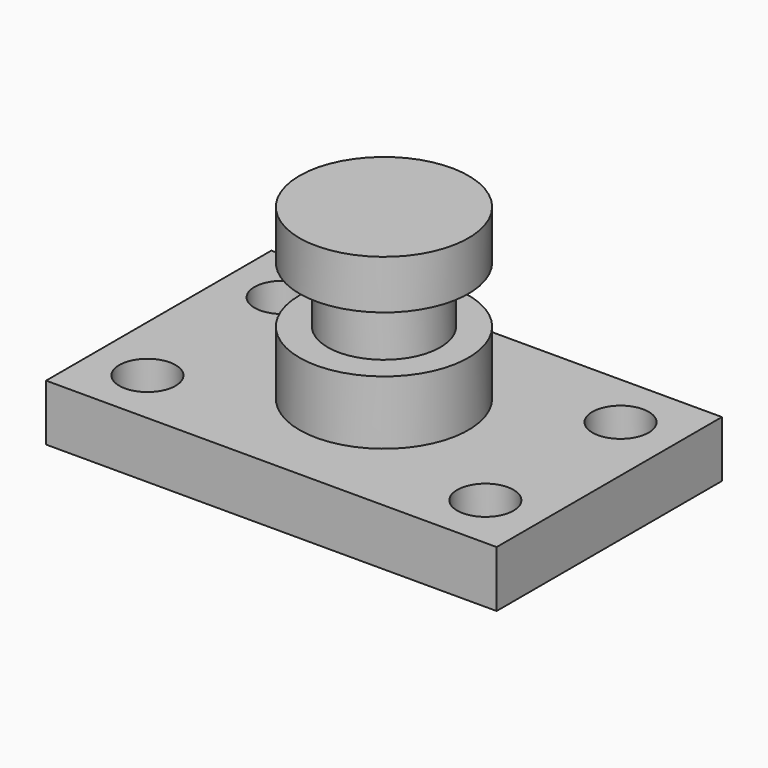
from build123d import *

# Parameters (mm, degrees)
F0_W     = 101.6
F0_H     = 63.5
F1_DEPTH = 12.7
F2_R     = 6.35
F3_DEPTH = 25.4
F4_W     = 19.05
F4_H     = 38.1
F6_W     = 12.7
F6_H     = 12.7


with BuildPart() as f1:
    # F0 (on Top) → F1 (new body)
    with BuildSketch(Plane.XY):
        Rectangle(F0_W, F0_H)
    extrude(amount=F1_DEPTH)

    # F2 (on face) → F3 (cut)
    with BuildSketch(Plane.XY.offset(12.7)):
        with Locations((-38.1, 19.05)):
            Circle(F2_R)
        with Locations((-38.1, -19.05)):
            Circle(F2_R)
        with Locations((38.1, -19.05)):
            Circle(F2_R)
        with Locations((38.1, 19.05)):
            Circle(F2_R)
    extrude(amount=-F3_DEPTH, mode=Mode.SUBTRACT)

    # F4 (on Front) → F5 (revolve)
    with BuildSketch(Plane.XZ):
        with Locations((-9.525, 31.75)):
            Rectangle(F4_W, F4_H)
    revolve(axis=Axis((0, 0, 31.75), (0, 0, 1)))

    # F6 (on Front) → F7 (revolve, cut)
    with BuildSketch(Plane.XZ):
        with Locations((-19.05, 33.404847)):
            Rectangle(F6_W, F6_H)
    revolve(axis=Axis((0, 0, 21.012729), (0, 0, -1)), mode=Mode.SUBTRACT)


solid = f1.part
